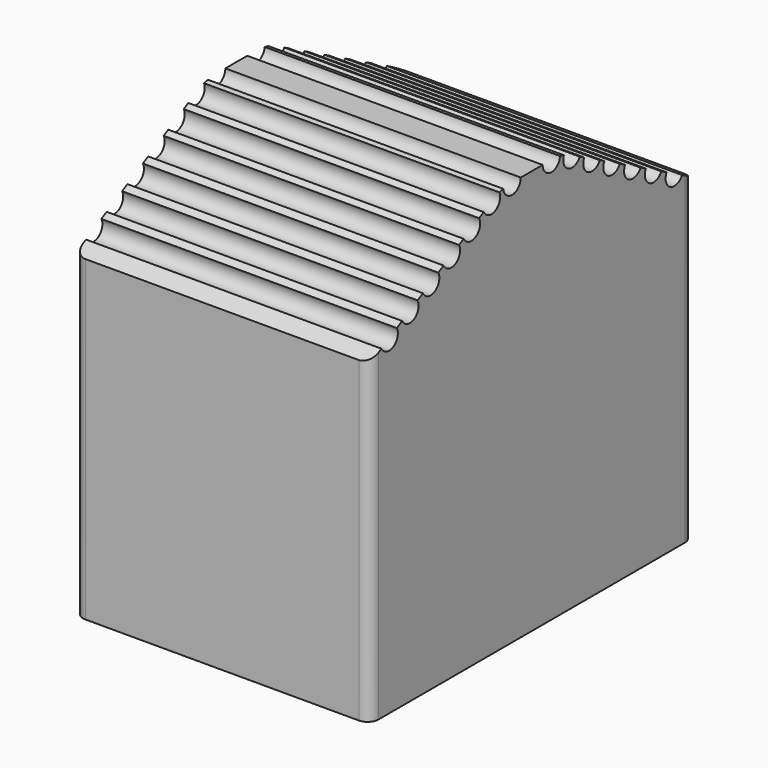
from build123d import *

# Parameters (mm, degrees)
F0_W     = 27
F0_H     = 37
F0_W_2   = 21
F0_H_2   = 31
F1_DEPTH = 25
F2_W     = 27
F2_H     = 37
F3_DEPTH = 12
F4_SIZE2 = 8
F4_SIZE  = 15
F5_R     = 5
F6_R     = 1
F7_DEPTH = 27.001
F8_R     = 1


with BuildPart() as f1:
    # F0 (on Top) → F1 (new body)
    with BuildSketch(Plane.XY):
        with Locations((15.3503448237, 21.0609438564)):
            Rectangle(F0_W, F0_H)
        with Locations((15.3503448237, 21.0609438564)):
            Rectangle(F0_W_2, F0_H_2, mode=Mode.SUBTRACT)
    extrude(amount=F1_DEPTH)

    # F2 (on face) → F3 (join)
    with BuildSketch(Plane.XY.offset(25)):
        with Locations((15.3503448237, 21.0609438564)):
            Rectangle(F2_W, F2_H)
    extrude(amount=F3_DEPTH)

    # F4
    f4_edges = [f1.edges().sort_by_distance(p)[0] for p in [
        (15.350345, 39.560944, 37),
        (15.350345, 2.560944, 37),
    ]]
    f4_side = f1.faces().sort_by_distance((15.350345, 21.060944, 37))[0]
    chamfer(f4_edges, length=F4_SIZE, length2=F4_SIZE2, reference=f4_side)

    # F5
    f5_edges = [f1.edges().sort_by_distance(p)[0] for p in [
        (15.350345, 24.560944, 37),
        (15.350345, 17.560944, 37),
    ]]
    fillet(f5_edges, radius=F5_R)

    # F6 (on face) → F7 (cut, through all)
    with BuildSketch(Plane(origin=(1.8503448237, 0, 0), x_dir=(0, -1, 0), z_dir=(-1, 0, 0))):
        with Locations((-32.6124144447, 32.7058823529)):
            Circle(F6_R)
        with Locations((-9.5094732682, 32.7058823529)):
            Circle(F6_R)
        with Locations((-25.6638850329, 36.4117647059)):
            Circle(F6_R)
        with Locations((-16.45800268, 36.4117647059)):
            Circle(F6_R)
        with Locations((-30.2415320917, 33.9703529412)):
            Circle(F6_R)
        with Locations((-11.8803556211, 33.9703529412)):
            Circle(F6_R)
        with Locations((-18.8109438564, 37)):
            Circle(F6_R)
        with Locations((-23.3109438564, 37)):
            Circle(F6_R)
        with Locations((-4.7668262094, 30.1764705882)):
            Circle(F6_R)
        with Locations((-37.3550615035, 30.1764705882)):
            Circle(F6_R)
        with Locations((-7.1377085623, 31.4409411765)):
            Circle(F6_R)
        with Locations((-34.9841791505, 31.4409411765)):
            Circle(F6_R)
        with Locations((-27.9527085623, 35.1910588235)):
            Circle(F6_R)
        with Locations((-14.1691791505, 35.1910588235)):
            Circle(F6_R)
    extrude(amount=-F7_DEPTH, mode=Mode.SUBTRACT)

    # F8
    f8_edges = [f1.edges().sort_by_distance(p)[0] for p in [
        (28.850345, 39.560944, 14.5),
        (1.850345, 39.560944, 14.5),
        (28.850345, 2.560944, 14.5),
        (1.850345, 2.560944, 14.5),
    ]]
    fillet(f8_edges, radius=F8_R)


solid = f1.part
